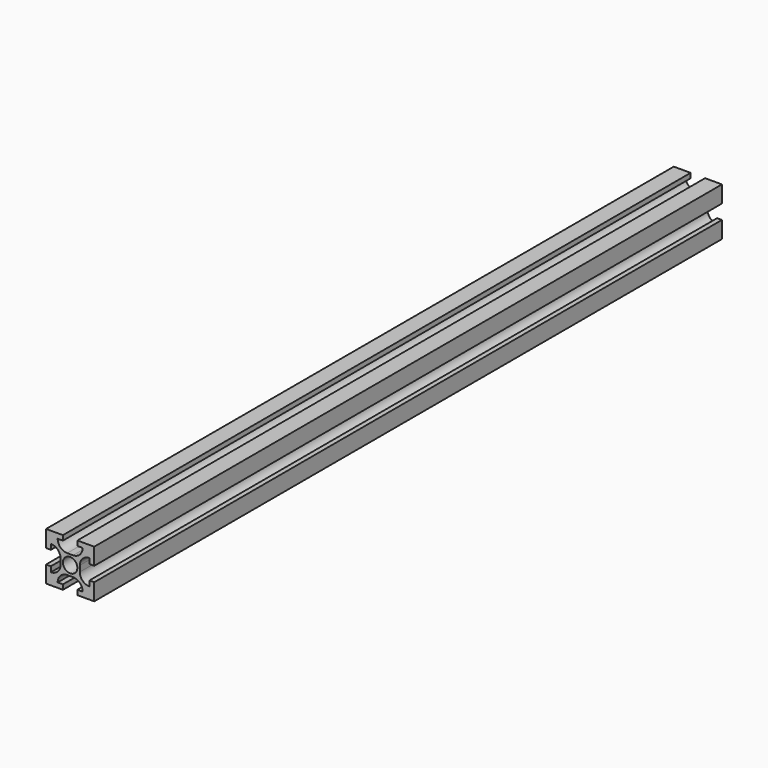
from build123d import *

# Parameters (mm, degrees)
F0_R          = 3
F1_DEPTH      = 163
F1_DEPTH_BACK = 163


with BuildPart() as f1:
    # F0 (on Front) → F1 (new body, two sides)
    with BuildSketch(Plane.XZ) as f1_sk:
        with BuildLine():
            Line((3, 10), (3, 8))
            Line((3, 8), (5.187252, 8))
            ThreePointArc((5.187252, 8), (4.033043, 5.173211), (1.214087, 4))
            Line((1.214087, 4), (0, 4))
            Line((0, 4), (-1.214087, 4))
            ThreePointArc((-1.214087, 4), (-4.033043, 5.173211), (-5.187252, 8))
            Line((-5.187252, 8), (-3, 8))
            Line((-3, 8), (-3, 10))
            Line((-3, 10), (-10, 10))
            Line((-10, 10), (-10, 3))
            Line((-10, 3), (-8, 3))
            Line((-8, 3), (-8, 5.187252))
            ThreePointArc((-8, 5.187252), (-5.173211, 4.033043), (-4, 1.214087))
            Line((-4, 1.214087), (-4, 0))
            Line((-4, 0), (-4, -1.214087))
            ThreePointArc((-4, -1.214087), (-5.173211, -4.033043), (-8, -5.187252))
            Line((-8, -5.187252), (-8, -3))
            Line((-8, -3), (-10, -3))
            Line((-10, -3), (-10, -10))
            Line((-10, -10), (-3, -10))
            Line((-3, -10), (-3, -8))
            Line((-3, -8), (-5.187252, -8))
            ThreePointArc((-5.187252, -8), (-4.033043, -5.173211), (-1.214087, -4))
            Line((-1.214087, -4), (0, -4))
            Line((0, -4), (1.214087, -4))
            ThreePointArc((1.214087, -4), (4.033043, -5.173211), (5.187252, -8))
            Line((5.187252, -8), (3, -8))
            Line((3, -8), (3, -10))
            Line((3, -10), (10, -10))
            Line((10, -10), (10, -3))
            Line((10, -3), (8, -3))
            Line((8, -3), (8, -5.187252))
            ThreePointArc((8, -5.187252), (5.173211, -4.033043), (4, -1.214087))
            Line((4, -1.214087), (4, 0))
            Line((4, 0), (4, 1.214087))
            ThreePointArc((4, 1.214087), (5.173211, 4.033043), (8, 5.187252))
            Line((8, 5.187252), (8, 3))
            Line((8, 3), (10, 3))
            Line((10, 3), (10, 10))
            Line((10, 10), (3, 10))
        make_face()
        Circle(F0_R, mode=Mode.SUBTRACT)
    extrude(amount=F1_DEPTH)
    extrude(f1_sk.sketch, amount=-F1_DEPTH_BACK)


solid = f1.part
